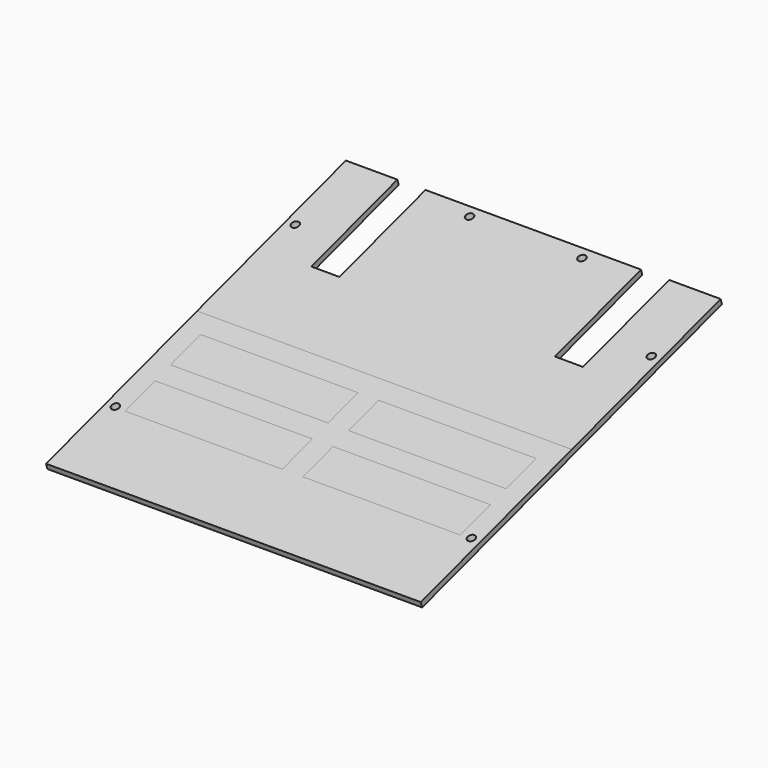
from build123d import *

# Parameters (mm, degrees)
PAD032_DEPTH    = 3
SKETCH060_W     = 84
SKETCH060_H     = 20
PAD031_DEPTH    = 30
SKETCH062_R     = 2
POCKET023_DEPTH = 250
POCKET022_DEPTH = 250


with BuildPart() as part:
    # Sketch063 → Pad032 (new body)
    with BuildSketch(Plane(origin=(0, 0, 0), x_dir=(1, 0, 0), z_dir=(0, -0.292372, 0.956305))):
        Polygon((-100, 104.55), (-72.5, 104.55), (-72.5, 44.55), (-57.5, 44.55), (-57.5, 104.55), (57.5, 104.55), (57.5, 44.55), (72.5, 44.55), (72.5, 104.55), (100, 104.55), (100, -104.55), (-100, -104.55), align=None)
    extrude(amount=-PAD032_DEPTH)

    # Sketch060 → Pad031 (join, symmetric)
    with BuildSketch(Plane.XY):
        with Locations((-47.5, -50.5)):
            Rectangle(SKETCH060_W, SKETCH060_H)
        with Locations((47.5, -50.5)):
            Rectangle(SKETCH060_W, SKETCH060_H)
        with Locations((-47.5, -20)):
            Rectangle(SKETCH060_W, SKETCH060_H)
        with Locations((47.5, -20)):
            Rectangle(SKETCH060_W, SKETCH060_H)
    extrude(amount=PAD031_DEPTH, both=True)

    # Sketch062 → Pocket023 (cut, symmetric)
    with BuildSketch(Plane.XY):
        with Locations((-95, 60)):
            Circle(SKETCH062_R)
        with Locations((-95, -60)):
            Circle(SKETCH062_R)
        with Locations((95, -60)):
            Circle(SKETCH062_R)
        with Locations((95, 60)):
            Circle(SKETCH062_R)
        with Locations((-30, 95)):
            Circle(SKETCH062_R)
        with Locations((30, 95)):
            Circle(SKETCH062_R)
    extrude(amount=POCKET023_DEPTH, both=True, mode=Mode.SUBTRACT)

    # Sketch061 → Pocket022 (cut, symmetric)
    with BuildSketch(Plane.YZ):
        Polygon((-110, -33.630375), (130, 39.744989), (130, 89.744989), (-110, 16.369625), align=None)
        Polygon((-110, -40), (130, 33.375364), (130, -16.624636), (-110, -90), align=None)
    extrude(amount=POCKET022_DEPTH, both=True, mode=Mode.SUBTRACT)


with BuildPart() as part_1:
    # Body012 placement: moved
    add(part.part.moved(Location((0, 0, 36))))


solid = part_1.part
